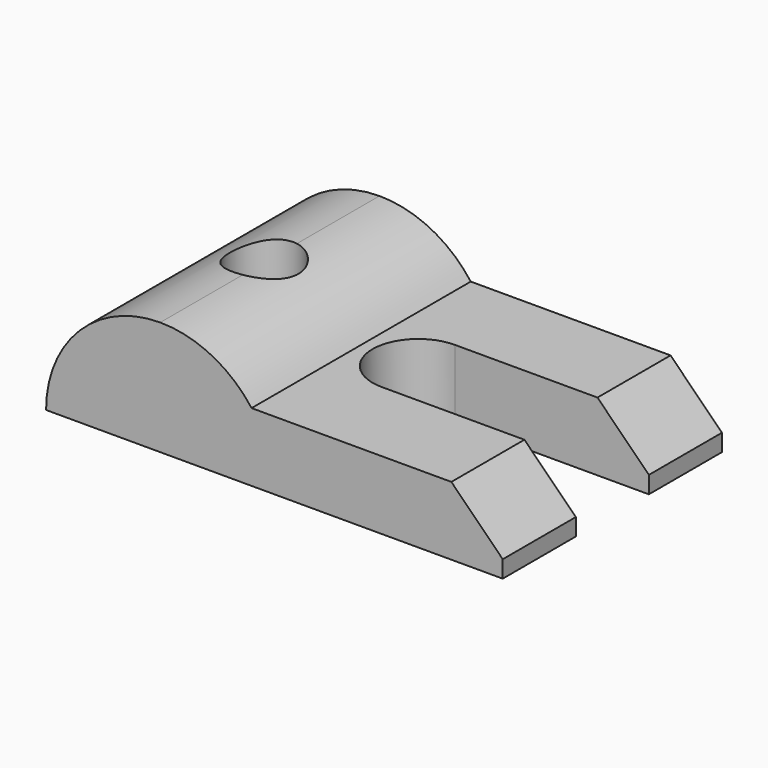
from build123d import *

# Parameters (mm, degrees)
F0_R     = 3
F1_DEPTH = 10
F2_R     = 3
F3_DEPTH = 5
F5_DEPTH = 24.001


with BuildPart() as f1:
    # F0 (on Top) → F1 (new body)
    with BuildSketch(Plane.XY):
        with BuildLine():
            Line((0, 24), (0, 0))
            Line((0, 0), (40, 0))
            Line((40, 0), (40, 8))
            Line((40, 8), (23, 8))
            ThreePointArc((23, 8), (19, 12), (23, 16))
            Line((23, 16), (40, 16))
            Line((40, 16), (40, 24))
            Line((40, 24), (0, 24))
        make_face()
        with Locations((9.5, 12)):
            Circle(F0_R, mode=Mode.SUBTRACT)
    extrude(amount=F1_DEPTH)

    # F2 (on face) → F3 (cut)
    with BuildSketch(Plane(origin=(0, 0, 0), x_dir=(1, 0, 0), z_dir=(0, 0, -1))):
        Polygon((9.5, -16.618802), (13.5, -14.309401), (13.5, -9.690599), (9.5, -7.381198), (5.5, -9.690599), (5.5, -14.309401), align=None)
        with Locations((9.5, -12)):
            Circle(F2_R, mode=Mode.SUBTRACT)
    extrude(amount=-F3_DEPTH, mode=Mode.SUBTRACT)

    # F4 (on face) → F5 (cut, through all)
    with BuildSketch(Plane.XZ):
        with BuildLine():
            Line((0, 10), (0, 0))
            ThreePointArc((0, 0), (2.928932, 7.071068), (10, 10))
            Line((10, 10), (0, 10))
        make_face()
        with BuildLine():
            Line((35.5, 6), (40, 1.5))
            Line((40, 1.5), (40, 10))
            Line((40, 10), (10, 10))
            ThreePointArc((10, 10), (14.472136, 8.944272), (18, 6))
            Line((18, 6), (35.5, 6))
        make_face()
    extrude(amount=-F5_DEPTH, mode=Mode.SUBTRACT)


solid = f1.part
